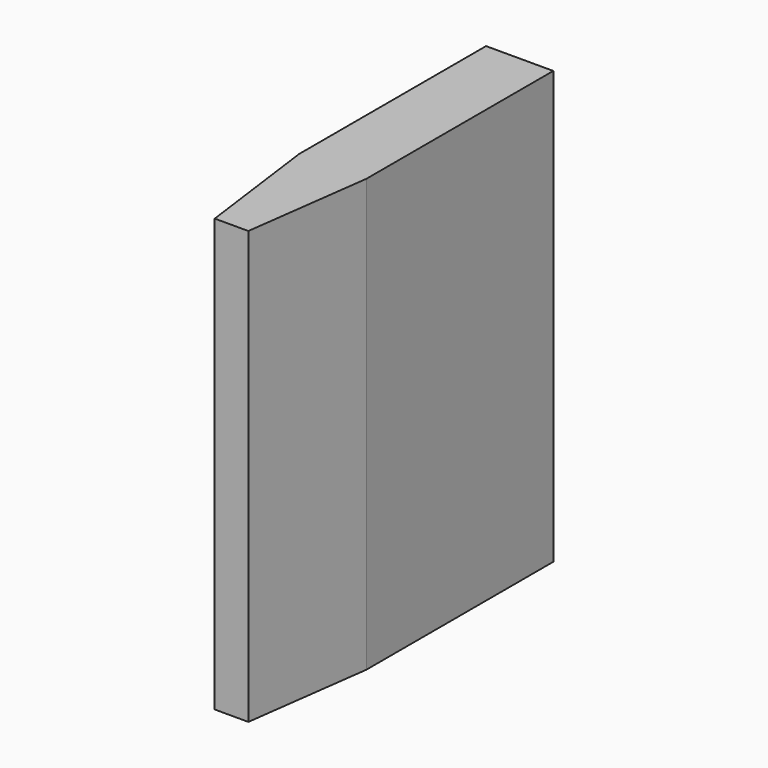
from build123d import *

# Parameters (mm, degrees)
F0_W     = 1.4
F0_H     = 9
F1_DEPTH = 7.5
F3_DEPTH = 25.4


with BuildPart() as f1:
    # F0 (on Front) → F1 (new body)
    with BuildSketch(Plane.XZ):
        with Locations((0.7, -4.5)):
            Rectangle(F0_W, F0_H)
    extrude(amount=F1_DEPTH)

    # F2 (on face) → F3 (cut)
    with BuildSketch(Plane.XY):
        Polygon((0, -7.5), (0.35, -7.5), (0, -4.867256), align=None)
        Polygon((1.4, -4.867256), (1.05, -7.5), (1.4, -7.5), align=None)
    extrude(amount=-F3_DEPTH, mode=Mode.SUBTRACT)


solid = f1.part
